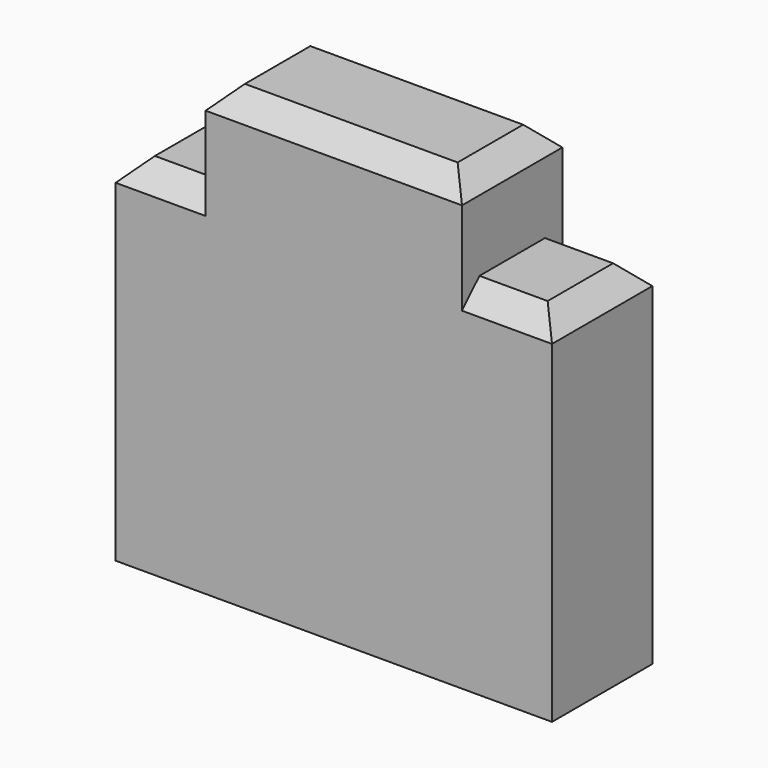
from build123d import *

# Parameters (mm, degrees)
SKETCH008_W     = 4
SKETCH008_H     = 1.15
PAD005_DEPTH    = 4.1
SKETCH009_W     = 0.825
SKETCH009_H     = 0.85
POCKET002_DEPTH = 5
CHAMFER005_SIZE = 0.2


with BuildPart() as part:
    # Sketch008 → Pad005 (new body)
    with BuildSketch(Plane.XY):
        Rectangle(SKETCH008_W, SKETCH008_H)
    extrude(amount=PAD005_DEPTH)

    # Sketch009 (on Face1 of Pad005) → Pocket002 (cut)
    with BuildSketch(Plane(origin=(0, 0.575, 0), x_dir=(-1, 0, 0), z_dir=(0, 1, 0))):
        with Locations((-1.5875, 3.675)):
            Rectangle(SKETCH009_W, SKETCH009_H)
        with Locations((1.5875, 3.675)):
            Rectangle(SKETCH009_W, SKETCH009_H)
    extrude(amount=-POCKET002_DEPTH, mode=Mode.SUBTRACT)

    # Chamfer005
    chamfer005_edges = [part.edges().sort_by_distance(p)[0] for p in [
        (0, 0.575, 4.1),
        (0, -0.575, 4.1),
        (1.5875, 0.575, 3.25),
        (-1.5875, 0.575, 3.25),
        (-1.5875, -0.575, 3.25),
        (1.5875, -0.575, 3.25),
        (2, 0, 3.25),
        (-2, 0, 3.25),
        (1.175, 0, 4.1),
        (-1.175, 0, 4.1),
    ]]
    chamfer(chamfer005_edges, length=CHAMFER005_SIZE)


with BuildPart() as part_1:
    # Body036 placement: moved
    add(part.part.moved(Location((0, 12, 0))))


solid = part_1.part
